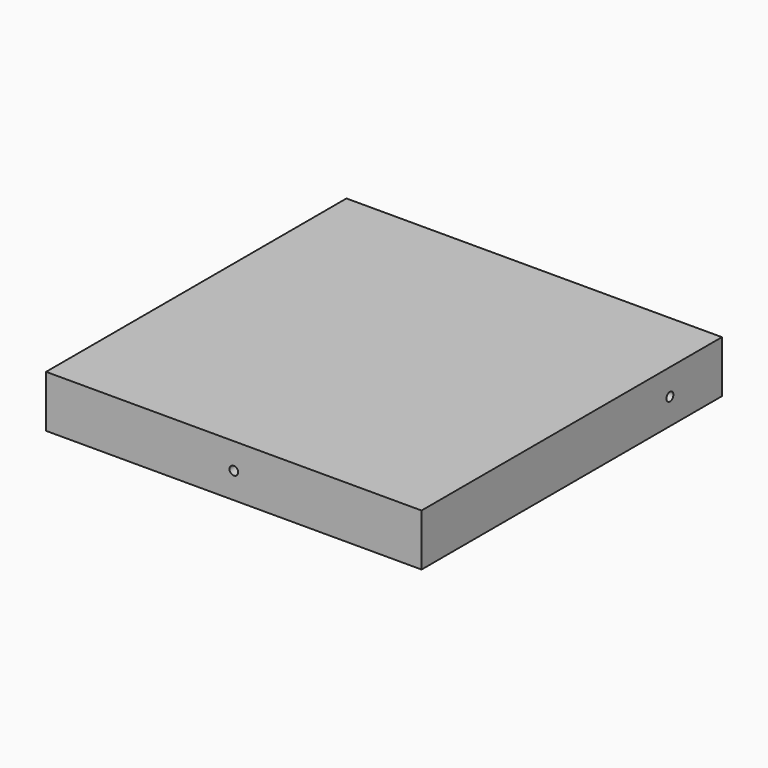
from build123d import *

# Parameters (mm, degrees)
F1_DEPTH = 18
F3_D     = 3
F3_DEPTH = 17.5
F3_TIP   = 0.9012909285
F5_D     = 3
F5_DEPTH = 17.5
F5_TIP   = 0.9012909285
F7_D     = 3
F7_DEPTH = 17.5
F7_TIP   = 0.9012909285


with BuildPart() as f1:
    # F0 (on Top) → F1 (new body)
    with BuildSketch(Plane.XY):
        Polygon((65, 65), (55, 65), (-55, 65), (-65, 65), (-65, 55), (-65, -55), (-65, -65), (-55, -65), (55, -65), (65, -65), (65, -55), (65, 55), align=None)
    extrude(amount=F1_DEPTH)

    # F3
    with Locations(Plane.XZ.offset(65)):
        with Locations((0, 9)):
            Hole(F3_D / 2, depth=F3_DEPTH)
            with Locations((0, 0, -(F3_DEPTH + F3_TIP / 2))):  # 118° drill point
                Cone(0, F3_D / 2, F3_TIP, mode=Mode.SUBTRACT)

    # F5
    with Locations(Plane.YZ.offset(65)):
        with Locations((42.5, 9)):
            Hole(F5_D / 2, depth=F5_DEPTH)
            with Locations((0, 0, -(F5_DEPTH + F5_TIP / 2))):  # 118° drill point
                Cone(0, F5_D / 2, F5_TIP, mode=Mode.SUBTRACT)

    # F7
    with Locations(Plane(origin=(-65, 0, 0), x_dir=(0, -1, 0), z_dir=(-1, 0, 0))):
        with Locations((-42.5, 9)):
            Hole(F7_D / 2, depth=F7_DEPTH)
            with Locations((0, 0, -(F7_DEPTH + F7_TIP / 2))):  # 118° drill point
                Cone(0, F7_D / 2, F7_TIP, mode=Mode.SUBTRACT)


solid = f1.part
